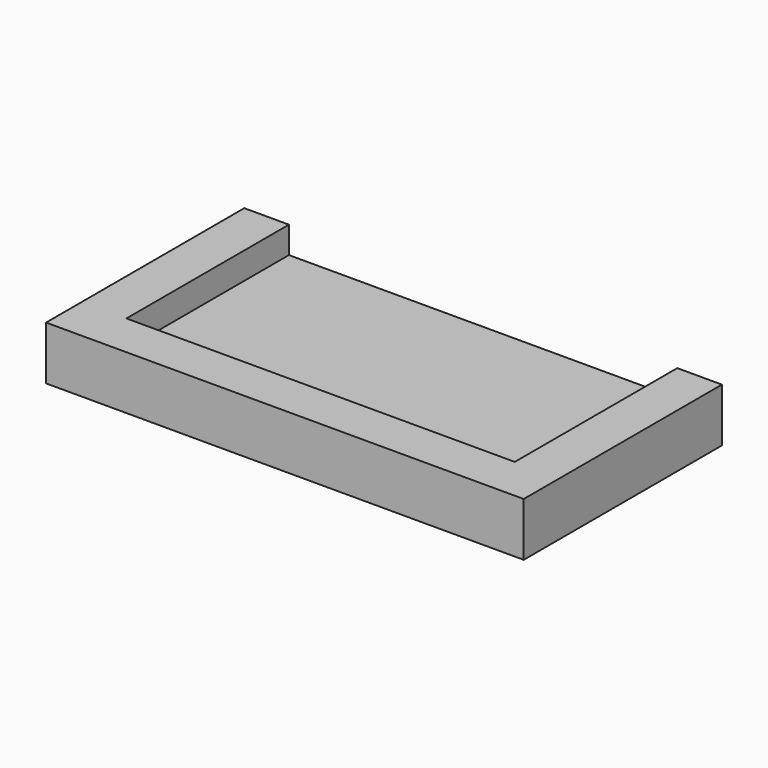
from build123d import *

# Parameters (mm, degrees)
F1_DEPTH = 300
F2_W     = 4350
F2_H     = 2275
F3_DEPTH = 300


with BuildPart() as f1:
    # F0 (on Top) → F1 (new body)
    with BuildSketch(Plane.XY):
        Polygon((2175, 1137.5), (2175, -1137.5), (-2175, -1137.5), (-2175, 1137.5), (-2675, 1137.5), (-2675, -1637.5), (2675, -1637.5), (2675, 1137.5), align=None)
    extrude(amount=F1_DEPTH)

    # F2 (on face) → F3 (join)
    with BuildSketch(Plane(origin=(0, 0, 0), x_dir=(1, 0, 0), z_dir=(0, 0, -1))):
        Polygon((2675, 1637.5), (-2675, 1637.5), (-2675, -1137.5), (-2175, -1137.5), (-2175, 1137.5), (2175, 1137.5), (2175, -1137.5), (2675, -1137.5), align=None)
        Rectangle(F2_W, F2_H)
    extrude(amount=F3_DEPTH)


solid = f1.part
